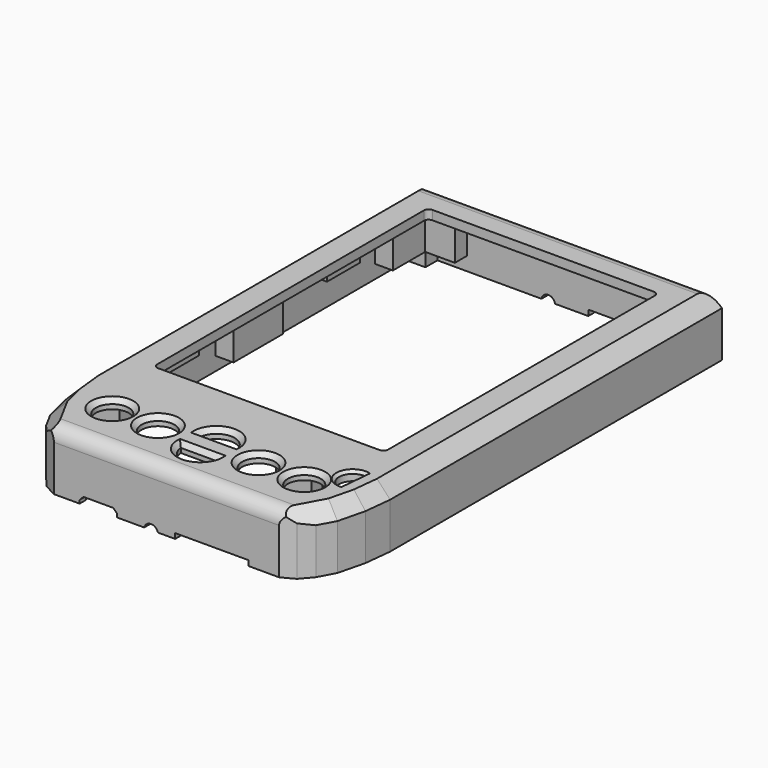
from build123d import *

# Parameters (mm, degrees)
PAD_DEPTH       = 13
SKETCH002_W     = 50.5
SKETCH002_H     = 75
POCKET_DEPTH    = 15
POCKET001_DEPTH = 11
SKETCH004_R     = 3.6
POCKET002_DEPTH = 5
SKETCH005_W     = 7.75
SKETCH005_H     = 3
SKETCH005_W_2   = 6.060126
SKETCH005_H_2   = 3.248485
SKETCH005_W_3   = 3.913111
SKETCH005_H_3   = 13.5
SKETCH005_W_4   = 3.95
SKETCH005_H_4   = 5.4
PAD001_DEPTH    = 8
CHAMFER_SIZE    = 1
CHAMFER001_SIZE = 0.6
POCKET008_DEPTH = 5
SKETCH034_R     = 1.56
SKETCH034_W     = 8.2
SKETCH034_H     = 3
SKETCH034_W_2   = 16
SKETCH034_H_2   = 2.61
POCKET013_DEPTH = 5
SKETCH035_W     = 12
SKETCH035_H     = 2.2
POCKET014_DEPTH = 5
SKETCH038_R     = 1.5
POCKET017_DEPTH = 5
SKETCH039_W     = 3.93
SKETCH039_H     = 3.28
PAD020_DEPTH    = 3
SKETCH040_R     = 0.9
POCKET018_DEPTH = 10
SKETCH045_R     = 0.6
POCKET023_DEPTH = 7
SKETCH047_W     = 3.7
SKETCH047_H     = 9
PAD022_DEPTH    = 3
SKETCH048_R     = 0.65
POCKET024_DEPTH = 4
SKETCH060_W     = 42.5
SKETCH060_H     = 2.92
POCKET029_DEPTH = 0.6
CHAMFER013_SIZE = 0.85
SKETCH091_R     = 3.3
POCKET041_DEPTH = 1.8
FILLET_R        = 0.6
FILLET013_R     = 1
CHAMFER019_SIZE = 3
FILLET014_R     = 3
SKETCH093_W     = 41.885073
SKETCH093_H     = 1.868717
SKETCH093_W_2   = 1.173572
SKETCH093_H_2   = 68.647411
PAD049_DEPTH    = 1.4
CHAMFER020_SIZE = 1
CHAMFER023_SIZE = 0.6


with BuildPart() as part:
    # Sketch001 → Pad (new body)
    with BuildSketch(Plane.XY):
        Polygon((-33.5, 60), (33.5, 60), (33.5, -28.56), (33.5, -30.72), (32.86, -36.67), (31.41, -42.53), (29.5, -46.05), (27.36, -48.55), (24.63, -50), (-24.63, -50), (-27.36, -48.55), (-29.5, -46.05), (-31.41, -42.53), (-32.86, -36.67), (-33.5, -30.72), (-33.5, -28.56), align=None)
    extrude(amount=PAD_DEPTH)

    # Sketch002 → Pocket (cut)
    with BuildSketch(Plane.XY.offset(13)):
        with Locations((0, 15.5)):
            Rectangle(SKETCH002_W, SKETCH002_H)
    extrude(amount=-POCKET_DEPTH, mode=Mode.SUBTRACT)

    # Sketch003 (on Face4 of Pocket) → Pocket001 (cut)
    with BuildSketch(Plane(origin=(0, 0, 0), x_dir=(1, 0, 0), z_dir=(0, 0, -1))):
        Polygon((31.465, 27.64), (31.465, -58.46), (-31.465, -58.46), (-31.465, 27.64), (-30.625, 35.62), (-28.345, 42.48), (-24.285, 47.7), (24.285, 47.7), (28.345, 42.48), (30.625, 35.62), align=None)
    extrude(amount=-POCKET001_DEPTH, mode=Mode.SUBTRACT)

    # Sketch004 (on Face5 of Pocket001) → Pocket002 (cut)
    with BuildSketch(Plane.XY.offset(13)):
        with Locations((-11, -38.582872)):
            Circle(SKETCH004_R)
        with Locations((-21, -38.582872)):
            Circle(SKETCH004_R)
        with Locations((21, -38.582872)):
            Circle(SKETCH004_R)
        with Locations((11, -38.582872)):
            Circle(SKETCH004_R)
        with BuildLine():
            Line((-4, -36.076862), (4, -36.076862))
            ThreePointArc((4, -36.076862), (0, -32.365628), (-4, -36.076862))
        make_face()
        with BuildLine():
            Line((-4, -41.076862), (4, -41.076862))
            ThreePointArc((-4, -41.076862), (0, -44.788096), (4, -41.076862))
        make_face()
        with BuildLine():
            Line((27.689413, -30.24629), (27.135416, -36.179923))
            ThreePointArc((27.689413, -30.24629), (24.317066, -32.924108), (27.135416, -36.179923))
        make_face()
    extrude(amount=-POCKET002_DEPTH, mode=Mode.SUBTRACT)

    # Sketch005 (on Face43 of Pocket002) → Pad001 (join)
    with BuildSketch(Plane(origin=(0, 0, 11), x_dir=(1, 0, 0), z_dir=(0, 0, -1))):
        Polygon((-30.773375, 33.990631), (-23.134689, 33.990631), (-23.134689, 30.446171), (-31.140054, 30.446171), align=None)
        with Locations((14.598705, 31.946171)):
            Rectangle(SKETCH005_W, SKETCH005_H)
        Polygon((-31.45, -46.28), (-27.5, -46.28), (-27.5, -55.11), (-21, -55.11), (-21, -58.46), (-31.45, -58.46), align=None)
        Polygon((27.5, -46.28), (31.388655, -46.28), (31.388655, -58.46), (21, -58.46), (21, -55.11), (27.5, -55.11), align=None)
        with Locations((-7.1951, 46.029024)):
            Rectangle(SKETCH005_W_2, SKETCH005_H_2)
        with Locations((29.456556, -9.45)):
            Rectangle(SKETCH005_W_3, SKETCH005_H_3)
        with Locations((-29.456556, -9.45)):
            Rectangle(SKETCH005_W_3, SKETCH005_H_3)
        Polygon((-24.271435, 47.655413), (-20.080922, 47.655413), (-20.080922, 44.099487), (-27.006367, 44.099487), align=None)
        Polygon((20.080922, 47.655413), (20.080922, 44.099487), (27.006367, 44.099487), (24.271435, 47.655413), align=None)
        with Locations((-29.475, 24.906171)):
            Rectangle(SKETCH005_W_4, SKETCH005_H_4)
        with Locations((29.475, 24.906171)):
            Rectangle(SKETCH005_W_4, SKETCH005_H_4)
    extrude(amount=PAD001_DEPTH)

    # Chamfer
    chamfer_edges = [part.edges().sort_by_distance(p)[0] for p in [
        (17.4, -38.582872, 13),
        (7.4, -38.582872, 13),
        (-14.6, -38.582872, 13),
        (-24.6, -38.582872, 13),
        (0, -32.365628, 13),
        (0, -36.076862, 13),
        (0, -41.076862, 13),
        (0, -44.788096, 13),
    ]]
    chamfer(chamfer_edges, length=CHAMFER_SIZE)

    # Chamfer001
    chamfer001_edges = [part.edges().sort_by_distance(p)[0] for p in [
        (27.412415, -33.213106, 13),
    ]]
    chamfer(chamfer001_edges, length=CHAMFER001_SIZE)

    # Sketch018 (on Face15 of Chamfer001) → Pocket008 (cut)
    with BuildSketch(Plane(origin=(0, 60, 0), x_dir=(-1, 0, 0), z_dir=(0, 1, 0))):
        with BuildLine():
            Line((-24.087924, 0), (-23.514256, 0))
            ThreePointArc((-23.514256, 0), (-23.80109, 0.015102), (-24.087924, 0))
        make_face()
    extrude(amount=-POCKET008_DEPTH, mode=Mode.SUBTRACT)

    # Sketch034 (on Face10 of Pocket008) → Pocket013 (cut)
    with BuildSketch(Plane.XZ.offset(50)):
        with Locations((-3.38, -0.4)):
            Circle(SKETCH034_R)
        with Locations((-14.9, 0.08)):
            Rectangle(SKETCH034_W, SKETCH034_H)
        with Locations((9.89, -0.175)):
            Rectangle(SKETCH034_W_2, SKETCH034_H_2)
    extrude(amount=-POCKET013_DEPTH, mode=Mode.SUBTRACT)

    # Sketch035 (on Face15 of Pocket013) → Pocket014 (cut)
    with BuildSketch(Plane(origin=(0, 60, 0), x_dir=(-1, 0, 0), z_dir=(0, 1, 0))):
        with Locations((-11.5, 0.15)):
            Rectangle(SKETCH035_W, SKETCH035_H)
    extrude(amount=-POCKET014_DEPTH, mode=Mode.SUBTRACT)

    # Sketch038 (on Face15 of Pocket014) → Pocket017 (cut)
    with BuildSketch(Plane(origin=(0, 60, 0), x_dir=(-1, 0, 0), z_dir=(0, 1, 0))):
        with Locations((3.26, -0.25)):
            Circle(SKETCH038_R)
    extrude(amount=-POCKET017_DEPTH, mode=Mode.SUBTRACT)

    # Sketch039 (on Face121 of Pocket017) → Pad020 (join)
    with BuildSketch(Plane(origin=(0, 0, 3), x_dir=(1, 0, 0), z_dir=(0, 0, -1))):
        Polygon((-27.02, 44.12), (-21.5, 44.12), (-21.5, 47.67), (-24.25, 47.67), align=None)
        Polygon((21.5, 47.67), (24.25, 47.67), (27.02, 44.12), (21.5, 44.12), align=None)
        with Locations((-29.465, -56.81)):
            Rectangle(SKETCH039_W, SKETCH039_H)
        with Locations((29.465, -56.81)):
            Rectangle(SKETCH039_W, SKETCH039_H)
    extrude(amount=PAD020_DEPTH)

    # Sketch040 (on Face152 of Pad020) → Pocket018 (cut)
    with BuildSketch(Plane(origin=(0, 0, 0), x_dir=(1, 0, 0), z_dir=(0, 0, -1))):
        with Locations((-29.5, -57)):
            Circle(SKETCH040_R)
        with Locations((29.5, -57)):
            Circle(SKETCH040_R)
        with Locations((-29.5, -13)):
            Circle(SKETCH040_R)
        with Locations((29.5, -13)):
            Circle(SKETCH040_R)
        with Locations((-24, 46.5)):
            Circle(SKETCH040_R)
        with Locations((24, 46.5)):
            Circle(SKETCH040_R)
    extrude(amount=-POCKET018_DEPTH, mode=Mode.SUBTRACT)

    # Sketch045 → Pocket023 (cut)
    with BuildSketch(Plane(origin=(0, 0, 3), x_dir=(1, 0, 0), z_dir=(0, 0, -1))):
        with Locations((-29, -50.7)):
            Circle(SKETCH045_R)
        with Locations((29, -50.7)):
            Circle(SKETCH045_R)
        with Locations((-29, -5.2)):
            Circle(SKETCH045_R)
        with Locations((29, -5.2)):
            Circle(SKETCH045_R)
        with Locations((15.75, 32.05)):
            Circle(SKETCH045_R)
        with Locations((29, 24.8)):
            Circle(SKETCH045_R)
        with Locations((-29, 24.8)):
            Circle(SKETCH045_R)
        with Locations((-27.25, 32.05)):
            Circle(SKETCH045_R)
        with Locations((-7.25, 45.8)):
            Circle(SKETCH045_R)
    extrude(amount=-POCKET023_DEPTH, mode=Mode.SUBTRACT)

    # Sketch047 (on Face33 of Pocket023) → Pad022 (join)
    with BuildSketch(Plane(origin=(0, 0, 11), x_dir=(1, 0, 0), z_dir=(0, 0, -1))):
        with Locations((-29.54, -33)):
            Rectangle(SKETCH047_W, SKETCH047_H)
        with Locations((29.54, -33)):
            Rectangle(SKETCH047_W, SKETCH047_H)
        with Locations((-29.57, 11)):
            Rectangle(SKETCH047_W, SKETCH047_H)
        with Locations((29.57, 11)):
            Rectangle(SKETCH047_W, SKETCH047_H)
    extrude(amount=PAD022_DEPTH)

    # Sketch048 (on Face153 of Pad022) → Pocket024 (cut)
    with BuildSketch(Plane(origin=(0, 0, 8), x_dir=(1, 0, 0), z_dir=(0, 0, -1))):
        with Locations((-29.64, 13)):
            Circle(SKETCH048_R)
        with Locations((-29.64, 9)):
            Circle(SKETCH048_R)
        with Locations((29.64, 13)):
            Circle(SKETCH048_R)
        with Locations((29.64, 9)):
            Circle(SKETCH048_R)
        with Locations((29.64, -31)):
            Circle(SKETCH048_R)
        with Locations((29.64, -35)):
            Circle(SKETCH048_R)
        with Locations((-29.64, -31)):
            Circle(SKETCH048_R)
        with Locations((-29.64, -35)):
            Circle(SKETCH048_R)
    extrude(amount=-POCKET024_DEPTH, mode=Mode.SUBTRACT)

    # Sketch060 (on Face65 of Pocket024) → Pocket029 (cut)
    with BuildSketch(Plane(origin=(0, -47.7, 0), x_dir=(-1, 0, 0), z_dir=(0, 1, 0))):
        with Locations((0, 1.46)):
            Rectangle(SKETCH060_W, SKETCH060_H)
    extrude(amount=-POCKET029_DEPTH, mode=Mode.SUBTRACT)

    # Chamfer013
    chamfer013_edges = [part.edges().sort_by_distance(p)[0] for p in [
        (-10.8, -49.15, 1.58),
        (-19, -49.15, 1.58),
    ]]
    chamfer(chamfer013_edges, length=CHAMFER013_SIZE)

    # Sketch091 (on Face28 of Chamfer013) → Pocket041 (cut)
    with BuildSketch(Plane(origin=(0, 61, 0), x_dir=(-1, 0, 0), z_dir=(0, 1, 0))):
        with Locations((-11.51, 0.32)):
            Circle(SKETCH091_R)
    extrude(amount=-POCKET041_DEPTH, mode=Mode.SUBTRACT)

    # Fillet
    fillet_edges = [part.edges().sort_by_distance(p)[0] for p in [
        (11.51, 59.2, 3.62),
    ]]
    fillet(fillet_edges, radius=FILLET_R)

    # Fillet013
    fillet013_edges = [part.edges().sort_by_distance(p)[0] for p in [
        (-25.25, 53, 12),
        (25.25, 53, 12),
        (25.25, -22, 12),
        (-25.25, -22, 12),
    ]]
    fillet(fillet013_edges, radius=FILLET013_R)

    # Chamfer019
    chamfer019_edges = [part.edges().sort_by_distance(p)[0] for p in [
        (33.5, 15.72, 13),
        (33.5, -29.64, 13),
        (33.18, -33.695, 13),
        (30.455, -44.29, 13),
        (32.135, -39.6, 13),
        (-33.5, 15.72, 13),
        (-33.5, -29.64, 13),
        (-33.18, -33.695, 13),
        (-30.455, -44.29, 13),
        (-32.135, -39.6, 13),
    ]]
    chamfer(chamfer019_edges, length=CHAMFER019_SIZE)

    # Fillet014
    fillet014_edges = [part.edges().sort_by_distance(p)[0] for p in [
        (0, -50, 13),
        (0, 60, 13),
    ]]
    fillet(fillet014_edges, radius=FILLET014_R)

    # Sketch093 (on Face48 of Fillet014) → Pad049 (join)
    with BuildSketch(Plane(origin=(0, 0, 11), x_dir=(1, 0, 0), z_dir=(0, 0, -1))):
        with Locations((0.037367, -57.695791)):
            Rectangle(SKETCH093_W, SKETCH093_H)
        with Locations((-30.917265, -12.026485)):
            Rectangle(SKETCH093_W_2, SKETCH093_H_2)
        with Locations((30.917265, -12.026485)):
            Rectangle(SKETCH093_W_2, SKETCH093_H_2)
    extrude(amount=PAD049_DEPTH)

    # Chamfer020
    chamfer020_edges = [part.edges().sort_by_distance(p)[0] for p in [
        (30.330479, -18.853086, 9.6),
        (30.330479, -1.9, 9.6),
        (30.330479, 22.35, 9.6),
        (30.330479, 41.89, 9.6),
        (0.037367, 56.761433, 9.6),
        (-30.330479, 41.89, 9.6),
        (-30.330479, 22.35, 9.6),
        (-30.330479, -1.9, 9.6),
        (-30.330479, -18.853086, 9.6),
    ]]
    chamfer(chamfer020_edges, length=CHAMFER020_SIZE)

    # Chamfer023
    chamfer023_edges = [part.edges().sort_by_distance(p)[0] for p in [
        (24.317066, -32.924108, 13),
    ]]
    chamfer(chamfer023_edges, length=CHAMFER023_SIZE)


solid = part.part
